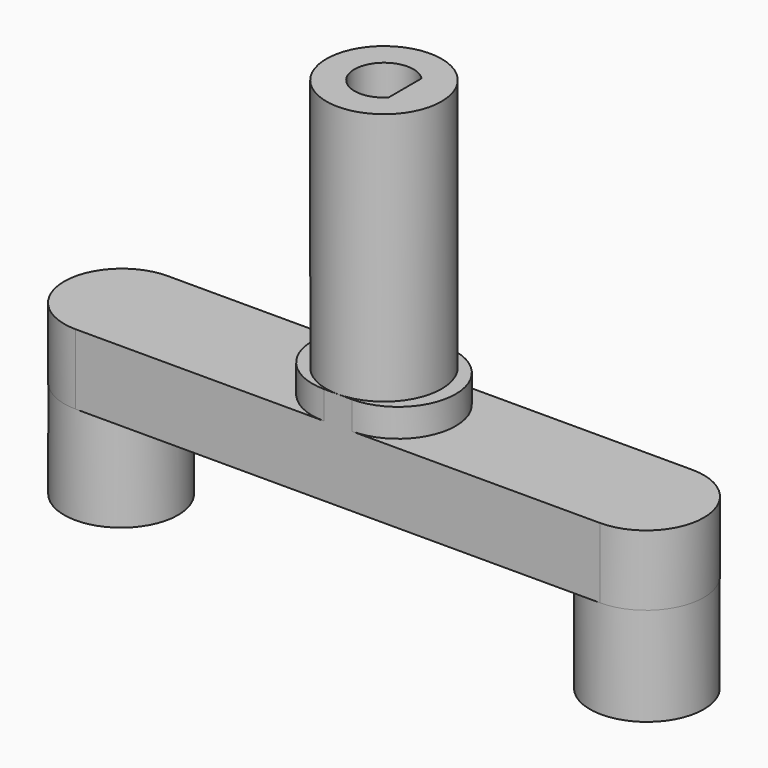
from build123d import *

# Parameters (mm, degrees)
PAD007_DEPTH    = 5
PAD008_DEPTH    = 2
SKETCH010_R     = 4.05
PAD009_DEPTH    = 7
SKETCH012_R     = 4.1
PAD011_DEPTH    = 18
POCKET002_DEPTH = 10


with BuildPart() as part:
    # Sketch007 → Pad007 (new body)
    with BuildSketch(Plane.XY):
        with BuildLine():
            ThreePointArc((-18.65, 4.1), (-22.75, 0), (-18.65, -4.1))
            Line((-18.65, -4.1), (18.65, -4.1))
            ThreePointArc((18.65, -4.1), (22.75, 0), (18.65, 4.1))
            Line((-18.65, 4.1), (18.65, 4.1))
        make_face()
    extrude(amount=PAD007_DEPTH)

    # Sketch008 (on Face6 of Pad007) → Pad008 (join)
    with BuildSketch(Plane.XY.offset(5)):
        with BuildLine():
            ThreePointArc((-1, 4.1), (-5.1, 0), (-1, -4.1))
            Line((-1, -4.1), (1, -4.1))
            ThreePointArc((1, -4.1), (5.1, 0), (1, 4.1))
            Line((-1, 4.1), (1, 4.1))
        make_face()
    extrude(amount=PAD008_DEPTH)

    # Sketch010 → Pad009 (join)
    with BuildSketch(Plane(origin=(0, 0, 0), x_dir=(1, 0, 0), z_dir=(0, 0, -1))):
        with Locations((-18.7, 0)):
            Circle(SKETCH010_R)
        with Locations((18.7, 0)):
            Circle(SKETCH010_R)
    extrude(amount=PAD009_DEPTH)

    # Sketch012 (on Face8 of Pad008) → Pad011 (join)
    with BuildSketch(Plane.XY.offset(7)):
        Circle(SKETCH012_R)
    extrude(amount=PAD011_DEPTH)

    # Sketch009 (on Face17 of Pad011) → Pocket002 (cut)
    with BuildSketch(Plane.XY.offset(25)):
        with BuildLine():
            Line((1.5, 1.469694), (1.5, -1.469694))
            ThreePointArc((1.5, 1.469694), (-2.1, 0), (1.5, -1.469694))
        make_face()
    extrude(amount=-POCKET002_DEPTH, mode=Mode.SUBTRACT)


solid = part.part
